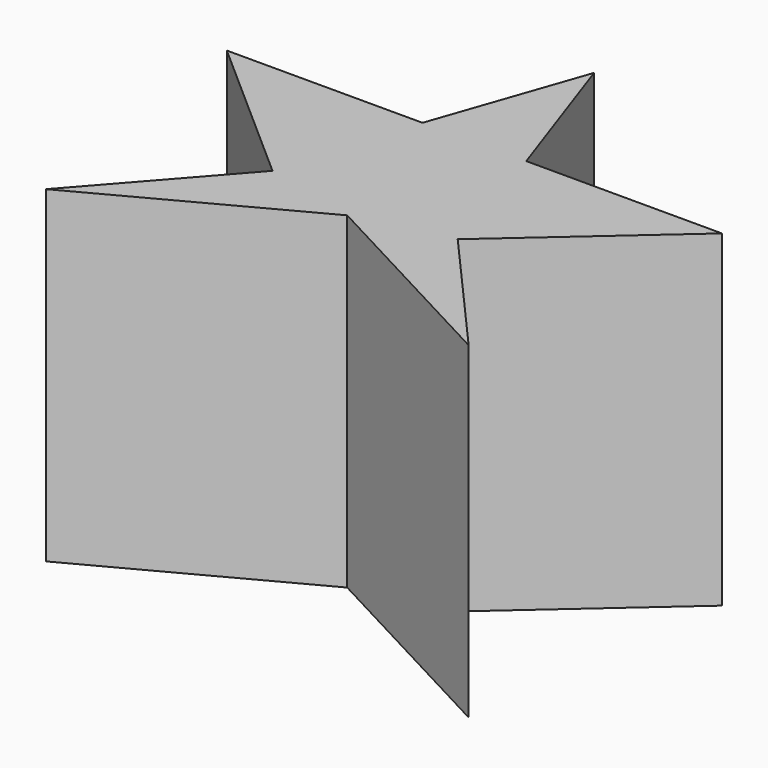
from build123d import *

# Parameters (mm, degrees)
F1_DEPTH = 76.2
F4_DEPTH = 75.184


with BuildPart() as f1:
    # F0 (on Top) → F1 (new body)
    with BuildSketch(Plane.XY):
        Polygon((12.062576, 15.116394), (0, 49.929906), (-12.062576, 15.116394), (-57.564445, 15.116394), (-21.529408, -16.643301), (-49.129791, -47.959118), (0, -21.834791), (49.129791, -47.959118), (21.529408, -16.643301), (57.564445, 15.116394), align=None)
    extrude(amount=F1_DEPTH)

    # F3 (on Top) → F4 (cut)
    with BuildSketch(Plane.XY):
        Polygon((0, 36.299834), (-6.031288, 9.924905), (-49.319141, 9.924905), (-14.50563, -16.643301), (-36.798492, -37.714638), (0, -16.643301), (34.328087, -34.896955), (13.617211, -16.643301), (49.929906, 12.062577), (8.397996, 12.062577), align=None)
    extrude(amount=F4_DEPTH, mode=Mode.SUBTRACT)


solid = f1.part
